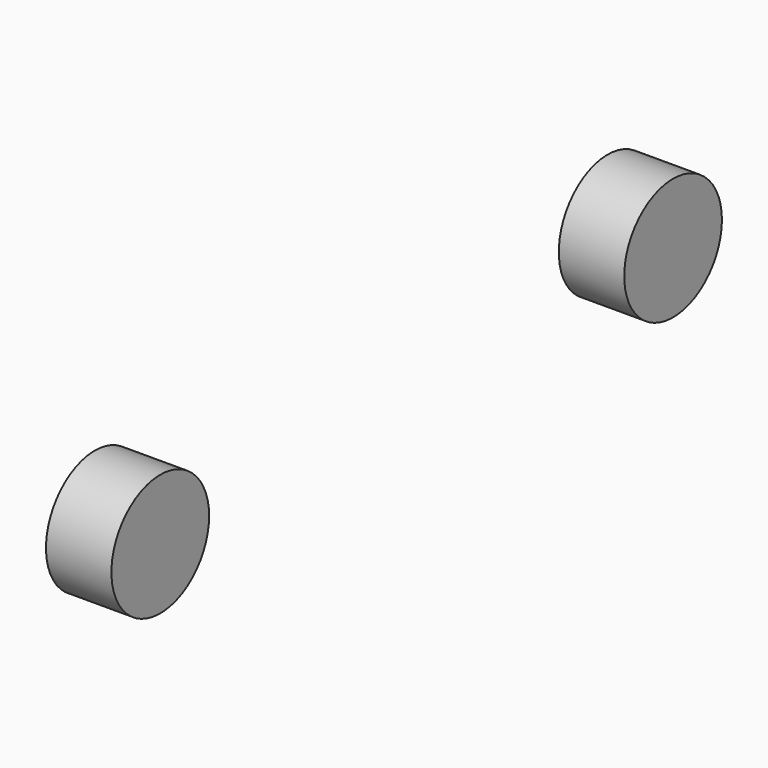
from build123d import *

# Parameters (mm, degrees)
F6_R     = 228.6
F7_DEPTH = 245
F5_R     = 228.6
F8_DEPTH = 245


with BuildPart() as f7:
    # F6 (on plane+point) → F7 (new body, through all)
    with BuildSketch(Plane.YZ.offset(900)):
        with Locations((-2400, 228.6)):
            Circle(F6_R)
    extrude(amount=-F7_DEPTH)


with BuildPart() as f8:
    # F5 (on plane+point) → F8 (new body, through all)
    with BuildSketch(Plane.YZ.offset(900)):
        with Locations((0, 228.6)):
            Circle(F5_R)
    extrude(amount=-F8_DEPTH)


solid = Compound([f7.part, f8.part])
